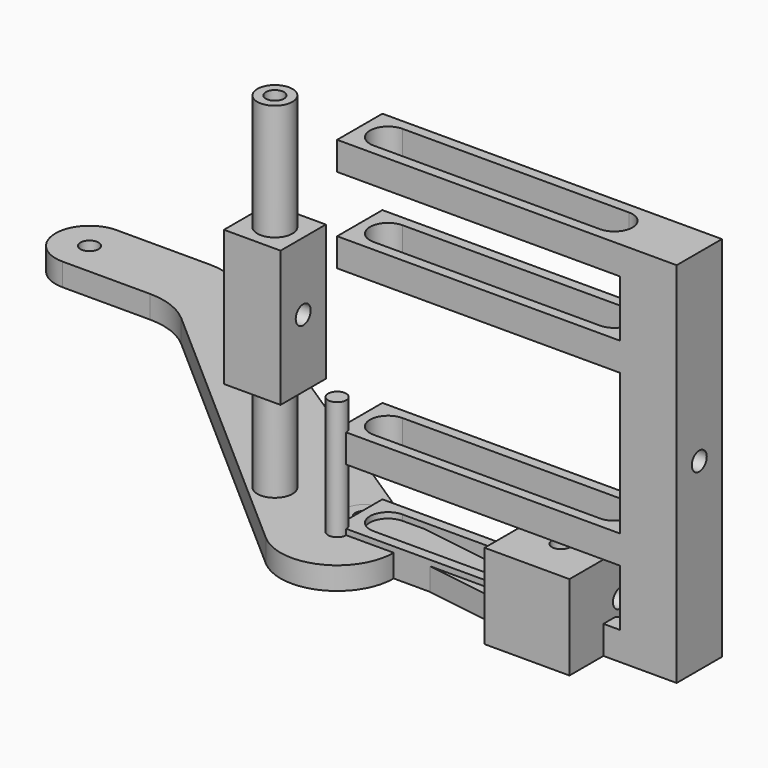
from build123d import *

# Parameters (mm, degrees)
F0_W      = 10
F0_H      = 10
F1_DEPTH  = 65
F0_W_2    = 50
F2_DEPTH  = 5
F3_START  = 15
F3_DEPTH  = 5
F4_START  = 45
F4_DEPTH  = 5
F5_START  = 60
F5_DEPTH  = 5
F0_R      = 3.1
F0_R_2    = 1.6
F6_DEPTH  = 65
F7_START  = 20.5
F7_DEPTH  = 24
F9_D      = 3.3
F9_2_D    = 3.3
F10_R     = 1.6
F11_DEPTH = 4
F12_DEPTH = 4
F13_DEPTH = 15
F15_D     = 3.3
F16_DEPTH = 25
F17_R     = 12


with BuildPart() as f1:
    # F0 (on Top) → F1 (new body)
    with BuildSketch(Plane.XY):
        with Locations((55, 5)):
            Rectangle(F0_W, F0_H)
    extrude(amount=F1_DEPTH)

    # F0 (on Top) → F2 (join)
    with BuildSketch(Plane.XY):
        with Locations((25, 5)):
            Rectangle(F0_W_2, F0_H)
        with BuildLine():
            ThreePointArc((5, 1.7999998882), (1.8, 4.9999998882), (5, 8.1999998882))
            Line((5, 8.1999998882), (45, 8.1999998882))
            ThreePointArc((45, 8.1999998882), (47.2627416998, 7.262741588), (48.2, 4.9999998882))
            ThreePointArc((48.2, 4.9999998882), (47.2627416998, 2.7372581884), (45, 1.7999998882))
            Line((45, 1.7999998882), (5, 1.7999998882))
        make_face(mode=Mode.SUBTRACT)
        with Locations((55, 5)):
            Rectangle(F0_W, F0_H)
    extrude(amount=F2_DEPTH)

    # F0 (on Top) → F3 (join)
    with BuildSketch(Plane.XY.offset(F3_START)):
        with Locations((25, 5)):
            Rectangle(F0_W_2, F0_H)
        with BuildLine():
            ThreePointArc((5, 1.7999998882), (1.8, 4.9999998882), (5, 8.1999998882))
            Line((5, 8.1999998882), (45, 8.1999998882))
            ThreePointArc((45, 8.1999998882), (47.2627416998, 7.262741588), (48.2, 4.9999998882))
            ThreePointArc((48.2, 4.9999998882), (47.2627416998, 2.7372581884), (45, 1.7999998882))
            Line((45, 1.7999998882), (5, 1.7999998882))
        make_face(mode=Mode.SUBTRACT)
        with Locations((55, 5)):
            Rectangle(F0_W, F0_H)
    extrude(amount=F3_DEPTH)

    # F0 (on Top) → F4 (join)
    with BuildSketch(Plane.XY.offset(F4_START)):
        with Locations((25, 5)):
            Rectangle(F0_W_2, F0_H)
        with BuildLine():
            ThreePointArc((5, 1.7999998882), (1.8, 4.9999998882), (5, 8.1999998882))
            Line((5, 8.1999998882), (45, 8.1999998882))
            ThreePointArc((45, 8.1999998882), (47.2627416998, 7.262741588), (48.2, 4.9999998882))
            ThreePointArc((48.2, 4.9999998882), (47.2627416998, 2.7372581884), (45, 1.7999998882))
            Line((45, 1.7999998882), (5, 1.7999998882))
        make_face(mode=Mode.SUBTRACT)
        with Locations((55, 5)):
            Rectangle(F0_W, F0_H)
    extrude(amount=F4_DEPTH)

    # F0 (on Top) → F5 (join)
    with BuildSketch(Plane.XY.offset(F5_START)):
        with Locations((25, 5)):
            Rectangle(F0_W_2, F0_H)
        with BuildLine():
            ThreePointArc((5, 1.7999998882), (1.8, 4.9999998882), (5, 8.1999998882))
            Line((5, 8.1999998882), (45, 8.1999998882))
            ThreePointArc((45, 8.1999998882), (47.2627416998, 7.262741588), (48.2, 4.9999998882))
            ThreePointArc((48.2, 4.9999998882), (47.2627416998, 2.7372581884), (45, 1.7999998882))
            Line((45, 1.7999998882), (5, 1.7999998882))
        make_face(mode=Mode.SUBTRACT)
        with Locations((55, 5)):
            Rectangle(F0_W, F0_H)
    extrude(amount=F5_DEPTH)

    # F9 (through all)
    with Locations(Plane(origin=(-20, 0, 0), x_dir=(0, -1, 0), z_dir=(-1, 0, 0))):
        with Locations((-4.9999997765, 32.5)):
            Hole(F9_D / 2)


with BuildPart() as f6:
    # F0 (on Top) → F6 (new body)
    with BuildSketch(Plane.XY):
        with Locations((-15, 4.9999998882)):
            Circle(F0_R)
        with Locations((-15, 4.9999998882)):
            Circle(F0_R_2, mode=Mode.SUBTRACT)
    extrude(amount=F6_DEPTH)

    # F0 (on Top) → F7 (join)
    with BuildSketch(Plane.XY.offset(F7_START)):
        with Locations((-15, 4.9999997765)):
            Rectangle(F0_W, F0_H)
        with Locations((-15, 4.9999998882)):
            Circle(F0_R, mode=Mode.SUBTRACT)
    extrude(amount=F7_DEPTH)

    # F9#2 (through all)
    with Locations(Plane(origin=(-20, 0, 0), x_dir=(0, -1, 0), z_dir=(-1, 0, 0))):
        with Locations((-4.9999997765, 32.5)):
            Hole(F9_2_D / 2)


with BuildPart() as f11:
    # F10 (on Top) → F11 (new body)
    with BuildSketch(Plane.XY):
        with BuildLine():
            Line((-60.0921995021, 39.4077368427), (-6.5941728525, -7.5177712383))
            ThreePointArc((-6.5941728525, -7.5177712383), (-8.2273434868, 5.6842606512), (4.6986663284, 8.8273741699))
            Line((4.6986663284, 8.8273741699), (4.798315092, 8.8122602921))
            Line((4.798315092, 8.8122602921), (-60.0921993244, 51.4077368427))
            Line((-60.0921993244, 51.4077368427), (-80.0921993244, 51.4077368427))
            ThreePointArc((-80.0921993244, 51.4077368427), (-75.8495586373, 49.6503775298), (-74.0921993244, 45.4077368427))
            ThreePointArc((-74.0921993244, 45.4077368427), (-75.8495587001, 41.1650960928), (-80.0921995021, 39.4077368427))
            Line((-80.0921995021, 39.4077368427), (-60.0921995021, 39.4077368427))
        make_face()
        with BuildLine():
            ThreePointArc((-80.0921993244, 51.4077368427), (-86.0921993244, 45.4077369316), (-80.0921995021, 39.4077368427))
            ThreePointArc((-80.0921995021, 39.4077368427), (-75.8495587001, 41.1650960928), (-74.0921993244, 45.4077368427))
            ThreePointArc((-74.0921993244, 45.4077368427), (-75.8495586373, 49.6503775298), (-80.0921993244, 51.4077368427))
        make_face()
        with Locations((-80.0921993244, 45.4077368427)):
            Circle(F10_R, mode=Mode.SUBTRACT)
        with BuildLine():
            ThreePointArc((4.6986663284, 8.8273741699), (-8.2273434868, 5.6842606512), (-6.5941728525, -7.5177712383))
            ThreePointArc((-6.5941728525, -7.5177712383), (4.1266373402, -9.1088344075), (10, 0))
            ThreePointArc((10, 0), (9.98794929, 0.4907840463), (9.951826204, 0.9803852334))
            Line((9.951826204, 0.9803852334), (0, 2.4999994226))
            ThreePointArc((0, 2.4999994226), (-3.4900919979, 6.2631682772), (0.524847722, 9.4604235106))
            Line((0.524847722, 9.4604235106), (4.6986663284, 8.8273741699))
        make_face()
        Circle(F10_R, mode=Mode.SUBTRACT)
        with BuildLine():
            ThreePointArc((5.487561799, 8.3598244899), (5.0984763941, 8.6026471774), (4.6986663284, 8.8273741699))
            Line((4.6986663284, 8.8273741699), (0.524847722, 9.4604235106))
            ThreePointArc((0.524847722, 9.4604235106), (2.6539562004, 8.2817786596), (3.5, 5.9999994226))
            ThreePointArc((3.5, 5.9999994226), (2.4748737342, 3.5251256884), (0, 2.4999994226))
            Line((0, 2.4999994226), (9.951826204, 0.9803852334))
            ThreePointArc((9.951826204, 0.9803852334), (8.5561502097, 5.1761272771), (5.487561799, 8.3598244899))
        make_face()
        with BuildLine():
            ThreePointArc((3.5, 5.9999994226), (2.6539562004, 8.2817786596), (0.524847722, 9.4604235106))
            ThreePointArc((0.524847722, 9.4604235106), (-3.4900919979, 6.2631682772), (0, 2.4999994226))
            ThreePointArc((0, 2.4999994226), (2.4748737342, 3.5251256884), (3.5, 5.9999994226))
        make_face()
        with Locations((0, 5.9999994226)):
            Circle(F10_R, mode=Mode.SUBTRACT)
    extrude(amount=F11_DEPTH)

    # F17
    f17_edges = [f11.edges().sort_by_distance(p)[0] for p in [
        (-60.092199, 51.407737, 2),
        (-60.0922, 39.407737, 2),
    ]]
    fillet(f17_edges, radius=F17_R)


with BuildPart() as f12:
    # F10 (on Top) → F12 (new body)
    with BuildSketch(Plane.XY):
        with BuildLine():
            ThreePointArc((5.487561799, 8.3598244899), (8.5561502097, 5.1761272771), (9.951826204, 0.9803852334))
            Line((9.951826204, 0.9803852334), (32.059174329, -2.3953409105))
            Line((32.059174329, -2.3953409105), (32.059174329, 4.6775648022))
            Line((32.059174329, 4.6775648022), (4.798315092, 8.8122602921))
            Line((4.798315092, 8.8122602921), (5.487561799, 8.3598244899))
        make_face()
        with BuildLine():
            ThreePointArc((5.487561799, 8.3598244899), (5.0984763941, 8.6026471774), (4.6986663284, 8.8273741699))
            Line((4.6986663284, 8.8273741699), (0.524847722, 9.4604235106))
            ThreePointArc((0.524847722, 9.4604235106), (2.6539562004, 8.2817786596), (3.5, 5.9999994226))
            ThreePointArc((3.5, 5.9999994226), (2.4748737342, 3.5251256884), (0, 2.4999994226))
            Line((0, 2.4999994226), (9.951826204, 0.9803852334))
            ThreePointArc((9.951826204, 0.9803852334), (8.5561502097, 5.1761272771), (5.487561799, 8.3598244899))
        make_face()
        with BuildLine():
            ThreePointArc((3.5, 5.9999994226), (2.6539562004, 8.2817786596), (0.524847722, 9.4604235106))
            ThreePointArc((0.524847722, 9.4604235106), (-3.4900919979, 6.2631682772), (0, 2.4999994226))
            ThreePointArc((0, 2.4999994226), (2.4748737342, 3.5251256884), (3.5, 5.9999994226))
        make_face()
        with Locations((0, 5.9999994226)):
            Circle(F10_R, mode=Mode.SUBTRACT)
        with BuildLine():
            Line((32.059174329, 4.6775648022), (32.059174329, -2.3953409105))
            Line((32.059174329, -2.3953409105), (39.0308584809, -3.4598962939))
            ThreePointArc((39.0308584809, -3.4598962939), (36.0990137036, 0.5265818512), (40.084022051, 3.460424088))
            Line((40.084022051, 3.460424088), (32.059174329, 4.6775648022))
        make_face()
        with BuildLine():
            ThreePointArc((40.084022051, 3.460424088), (36.0990137036, 0.5265818512), (39.0308584809, -3.4598962939))
            ThreePointArc((39.0308584809, -3.4598962939), (41.8396232466, -2.6550993831), (43.059174329, 0))
            ThreePointArc((43.059174329, 0), (42.2131305294, 2.281779237), (40.084022051, 3.460424088))
        make_face()
        with Locations((39.559174329, 0)):
            Circle(F10_R, mode=Mode.SUBTRACT)
    extrude(amount=F12_DEPTH)


with BuildPart() as f13:
    # F10 (on Top) → F13 (new body)
    with BuildSketch(Plane.XY):
        with BuildLine():
            Line((39.0308584809, -3.4598962939), (32.059174329, -2.3953409105))
            Line((32.059174329, -2.3953409105), (32.059174329, -7.5))
            Line((32.059174329, -7.5), (47.059174329, -7.5))
            Line((47.059174329, -7.5), (47.059174329, 7.5))
            Line((47.059174329, 7.5), (32.059174329, 7.5))
            Line((32.059174329, 7.5), (32.059174329, 4.6775648022))
            Line((32.059174329, 4.6775648022), (40.084022051, 3.460424088))
            ThreePointArc((40.084022051, 3.460424088), (42.2131305294, 2.281779237), (43.059174329, 0))
            ThreePointArc((43.059174329, 0), (41.8396232466, -2.6550993831), (39.0308584809, -3.4598962939))
        make_face()
        with BuildLine():
            Line((32.059174329, 4.6775648022), (32.059174329, -2.3953409105))
            Line((32.059174329, -2.3953409105), (39.0308584809, -3.4598962939))
            ThreePointArc((39.0308584809, -3.4598962939), (36.0990137036, 0.5265818512), (40.084022051, 3.460424088))
            Line((40.084022051, 3.460424088), (32.059174329, 4.6775648022))
        make_face()
        with BuildLine():
            ThreePointArc((40.084022051, 3.460424088), (36.0990137036, 0.5265818512), (39.0308584809, -3.4598962939))
            ThreePointArc((39.0308584809, -3.4598962939), (41.8396232466, -2.6550993831), (43.059174329, 0))
            ThreePointArc((43.059174329, 0), (42.2131305294, 2.281779237), (40.084022051, 3.460424088))
        make_face()
        with Locations((39.559174329, 0)):
            Circle(F10_R, mode=Mode.SUBTRACT)
    extrude(amount=F13_DEPTH)

    # F15 (through all)
    with Locations(Plane.YZ.offset(47.059174329)):
        with Locations((3.75, 7.5)):
            Hole(F15_D / 2)


with BuildPart() as f16:
    # F10 (on Top) → F16 (new body)
    with BuildSketch(Plane.XY):
        Circle(F10_R)
    extrude(amount=F16_DEPTH)


solid = Compound([f1.part, f6.part, f11.part, f12.part, f13.part, f16.part])
